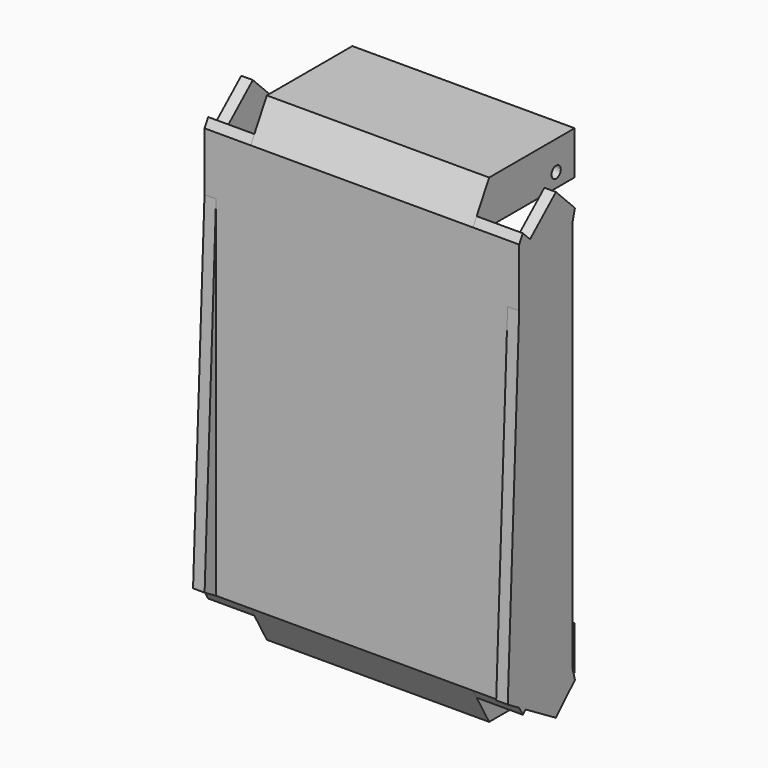
from build123d import *

# Parameters (mm, degrees)
SKETCH_R     = 1
PAD_DEPTH    = 3
PAD001_DEPTH = 16.25
PAD002_DEPTH = 8
PAD003_DEPTH = 2


with BuildPart() as part:
    # Sketch → Pad (new body)
    with BuildSketch(Plane.YZ):
        Polygon((8.005182, 34), (8.005182, 41.5), (-10.5, 41.5), (-14, 35.310526), (-14, -35.310526), (-10.5, -41.5), (8.005182, -41.5), (8.005182, -34), (-10.5, -34), (-12, -32.5), (-12, 32.5), (-10.5, 34), align=None)
        with Locations((4.005182, 36.430913)):
            Circle(SKETCH_R, mode=Mode.SUBTRACT)
        with Locations((4.005182, -36.430913)):
            Circle(SKETCH_R, mode=Mode.SUBTRACT)
    pad = extrude(amount=-PAD_DEPTH)

    # Sketch002 (on Face15 of Pad) → Pad001 (join)
    with BuildSketch(Plane.YZ):
        Polygon((-10.5, 41.5), (8.005182, 41.5), (8.005182, 39.75), (-10.5, 39.75), (-12, 36.422085), (-12, -36.422085), (-10.5, -39.75), (8.005182, -39.75), (8.005182, -41.5), (-10.5, -41.5), (-14, -35.310526), (-14, 35.310526), align=None)
    pad001 = extrude(amount=PAD001_DEPTH)

    # Sketch003 (on Face6 of Pad001) → Pad002 (join)
    with BuildSketch(Plane(origin=(-3, 0, 0), x_dir=(0, 1, 0), z_dir=(-1, 0, 0))):
        Polygon((-12, 32.5), (-12, -32.5), (-10.5, -34), (-13.209125, -36.709125), (-14, -35.310526), (-14, 35.310526), (-13.209125, 36.709125), (-10.5, 34), align=None)
    pad002 = extrude(amount=PAD002_DEPTH)

    # Sketch004 (on Face28 of Pad002) → Pad003 (join)
    with BuildSketch(Plane(origin=(-11, 0, 0), x_dir=(0, 1, 0), z_dir=(-1, 0, 0))):
        Polygon((-6.041631, 40.085786), (-16.478994, 33.828846), (-13.655174, -33.40501), (-6.041631, -40.085786), (-1.926248, -35.970404), (-2.5, -33.829131), (-2.5, 33.829131), (-1.926248, 35.970404), align=None)
    pad003 = extrude(amount=-PAD003_DEPTH)

    # Mirrored: Pad, Pad001, Pad002, Pad003 across face of Pad003
    add(pad.mirror(Plane(origin=(16.25, -9.470165, 0), x_dir=(0, 1, 0), z_dir=(1, 0, 0))))
    add(pad001.mirror(Plane(origin=(16.25, -9.470165, 0), x_dir=(0, 1, 0), z_dir=(1, 0, 0))))
    add(pad002.mirror(Plane(origin=(16.25, -9.470165, 0), x_dir=(0, 1, 0), z_dir=(1, 0, 0))))
    add(pad003.mirror(Plane(origin=(16.25, -9.470165, 0), x_dir=(0, 1, 0), z_dir=(1, 0, 0))))


solid = part.part
